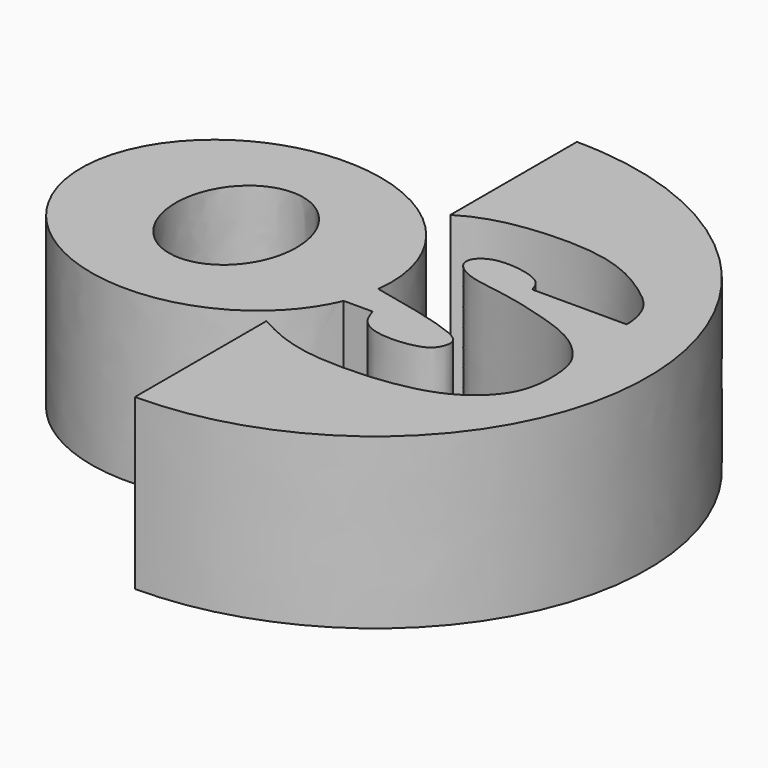
from build123d import *

# Parameters (mm, degrees)
F1_DEPTH = 10


with BuildPart() as f1:
    # F0 (on Top) → F1 (new body)
    with BuildSketch(Plane.XY):
        with BuildLine():
            add(Edge.make_bspline(
                [(2.0296457511, -0.8789825634), (4.1959245459, -1.3352487154), (7.0386333554, -2.0067184488), (8.1066923125, -2.7397210922), (7.9749546998, -3.4649214618), (7.6692887662, -3.9211820916), (7.1368685251, -4.208759588), (6.078243389, -4.4306087243), (4.5085657916, -4.3898169984), (3.5441273351, -3.7480814881), (3.3371528109, -3.1148922406), (3.2369296532, -2.8075522278)],
                knots=[0, 0, 0, 0, 0.2343670941, 0.335161567, 0.4140464567, 0.4878009759, 0.5638295882, 0.6692431543, 0.7962692486, 0.9012422415, 1, 1, 1, 1], degree=3))
            add(Edge.make_bspline(
                [(2.0296457511, -0.8789825634), (3.5935408506, 11.9068781884), (-10.0880534393, 7.6896991514), (-23.7696477292, 3.4725201143), (-13.6220573579, -5.7034228185), (-3.4744669867, -14.8793657512), (1.5207597149, -2.8075522278)],
                knots=[3.0333950097, 3.0333950097, 3.0333950097, 5.046471668, 5.046471668, 7.0595483262, 7.0595483262, 9.0726249845, 9.0726249845, 9.0726249845], degree=2, weights=[1, 0.534788982, 1, 0.534788982, 1, 0.534788982, 1]))
            Line((1.5207597149, -2.8075522278), (3.2369296532, -2.8075522278))
        make_face()
        with BuildLine():
            add(Edge.make_bspline(
                [(-7.082561031, 4.1916770861), (-13.2823019673, 4.1916770861), (-10.1824314992, -2.095838543), (-7.082561031, -8.3833541721), (-3.9826905628, -2.095838543), (-0.8828200947, 4.1916770861), (-7.082561031, 4.1916770861)],
                knots=[0, 0, 0, 2.0943951024, 2.0943951024, 4.1887902048, 4.1887902048, 6.2831853072, 6.2831853072, 6.2831853072], degree=2, weights=[1, 0.5, 1, 0.5, 1, 0.5, 1]))
        make_face(mode=Mode.SUBTRACT)
    extrude(amount=F1_DEPTH)


with BuildPart() as f1b:
    # F0 (on Top) → F1, piece 2 (new body)
    with BuildSketch(Plane.XY):
        with BuildLine():
            Line((0, -6.6129290499), (0, -16.3369383663))
            add(Edge.make_bspline(
                [(0, -16.3369383663), (17.2611761703, -16.3369383663), (17.2611761703, 0), (17.2611761703, 16.3369383663), (0, 16.3369383663)],
                knots=[1.5707963268, 1.5707963268, 1.5707963268, 3.1415926536, 3.1415926536, 4.7123889804, 4.7123889804, 4.7123889804], degree=2, weights=[1, 0.7071067812, 1, 0.7071067812, 1]))
            Line((0, 16.3369383663), (0, 6.9871020569))
            add(Edge.make_bspline(
                [(0, 6.9871020569), (0.7606964125, 7.4480307471), (2.650742106, 8.2564214656), (8.352208493, 8.5275699755), (11.4734513806, 6.621659875), (12.9392099186, 5.3691184552), (13.2103626649, 4.0083383332), (13.1968103375, 3.5189409862)],
                knots=[0, 0, 0, 0, 0.1967870469, 0.4709237532, 0.6903450292, 0.847859577, 1, 1, 1, 1], degree=3))
            Line((13.1968103375, 3.5189409862), (7.61273643, 3.5189409862))
            add(Edge.make_bspline(
                [(7.61273643, 3.5189409862), (7.5492835479, 3.731948283), (7.4043802357, 4.2183795026), (6.3786057962, 4.753495834), (4.3933672516, 4.9364243675), (3.4537842591, 4.2023441233), (3.4375255832, 3.4238125679), (4.5750871668, 2.6114661931), (6.8645652894, 2.4165807755), (10.0459375782, 1.5797137112), (11.9738960783, 0.795999988), (13.2030055129, -0.3453323538), (13.8051043581, -1.5032996243), (13.8845839789, -3.8843721599), (13.1328347988, -5.6307377555), (11.3113774877, -7.1214281823), (9.0827977138, -7.7801100525), (6.6845921999, -8.0706595629), (3.7539711861, -8.0518122863), (1.5241242069, -7.4360089256), (0.4813278293, -6.8728627535), (0, -6.6129290499)],
                knots=[0, 0, 0, 0, 0.0321571784, 0.0734353036, 0.1289616072, 0.1692900289, 0.1999726456, 0.2431621905, 0.3037160967, 0.3758908937, 0.4331226424, 0.4823495864, 0.5269622834, 0.5865622852, 0.6407152751, 0.6998339169, 0.7595996736, 0.8211979939, 0.8888719243, 0.9487061553, 1, 1, 1, 1], degree=3))
        make_face()
    extrude(amount=F1_DEPTH)


solid = Compound([f1.part, f1b.part])
